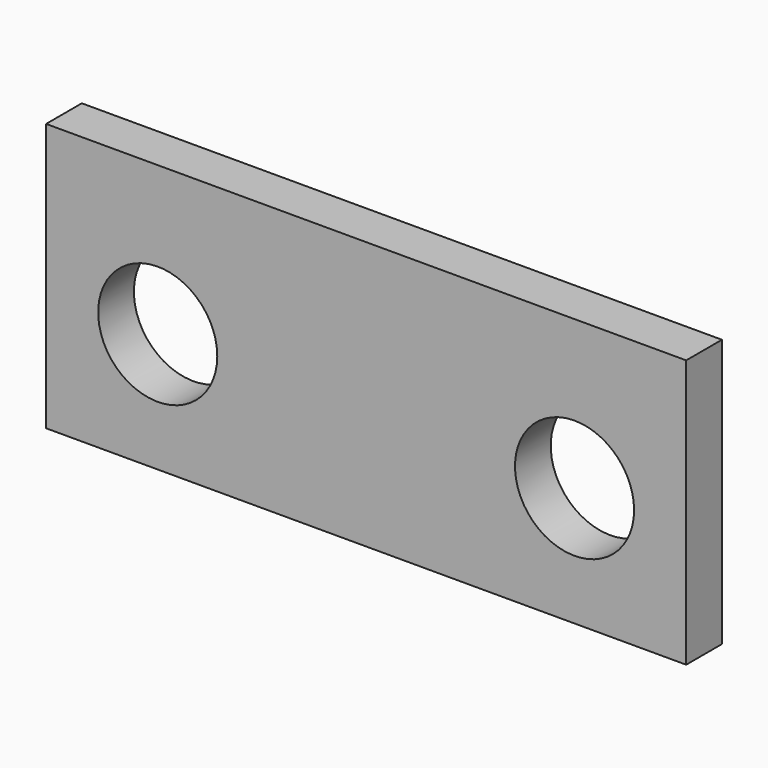
from build123d import *

# Parameters (mm, degrees)
F1_W     = 273.05
F1_H     = 114.3
F1_R     = 25.4
F2_DEPTH = 19.05
F3_DEPTH = 25.4


with BuildPart() as f2:
    # F1 (on face) → F2 (new body)
    with BuildSketch(Plane.XZ):
        with Locations((136.525, 57.15)):
            Rectangle(F1_W, F1_H)
        with Locations((47.625, 50.8)):
            Circle(F1_R, mode=Mode.SUBTRACT)
        with Locations((225.425, 50.8)):
            Circle(F1_R, mode=Mode.SUBTRACT)
    extrude(amount=F2_DEPTH)

    # F1 (on face) → F3 (cut)
    with BuildSketch(Plane.XZ):
        with Locations((47.625, 50.8)):
            Circle(F1_R)
        with Locations((225.425, 50.8)):
            Circle(F1_R)
    extrude(amount=-F3_DEPTH, mode=Mode.SUBTRACT)


solid = f2.part
